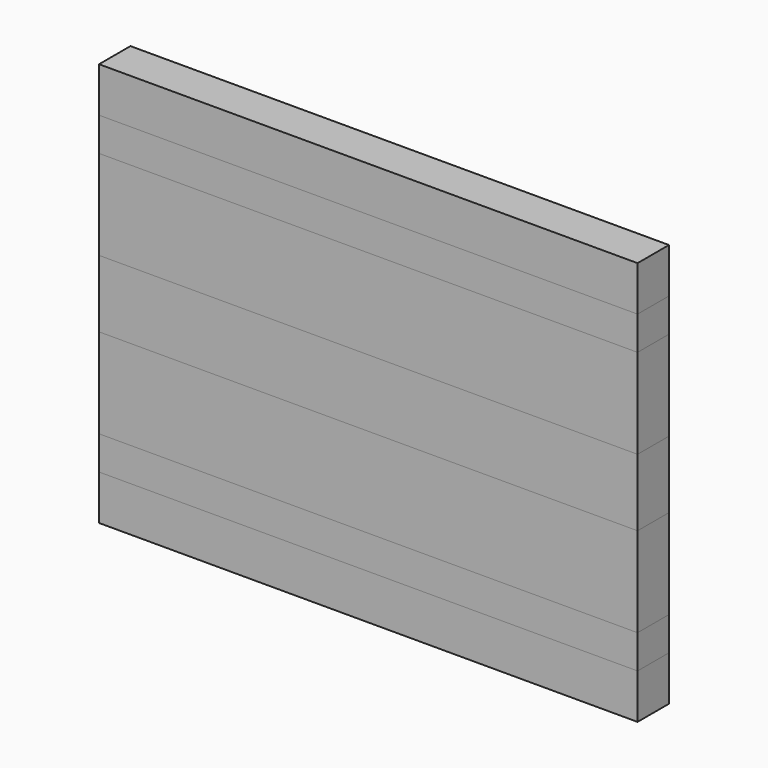
from build123d import *

# Parameters (mm, degrees)
F0_W     = 609.6
F0_H     = 38.1
F1_DEPTH = 44.45
F2_DEPTH = 44.45
F0_H_2   = 101.6
F0_H_3   = 50.8
F3_DEPTH = 44.45
F0_H_4   = 76.2
F4_DEPTH = 44.45
F5_DEPTH = 44.45


with BuildPart() as f1:
    # F0 (on Front) → F1 (new body)
    with BuildSketch(Plane.XZ):
        with Locations((145.823698, 120.65)):
            Rectangle(F0_W, F0_H)
    extrude(amount=F1_DEPTH)


with BuildPart() as f2:
    # F0 (on Front) → F2 (new body)
    with BuildSketch(Plane.XZ):
        with Locations((145.823698, -196.85)):
            Rectangle(F0_W, F0_H)
    extrude(amount=F2_DEPTH)


with BuildPart() as f3:
    # F0 (on Front) → F3 (new body)
    with BuildSketch(Plane.XZ):
        with Locations((145.823698, 50.8)):
            Rectangle(F0_W, F0_H_2)
        with Locations((145.823698, 165.1)):
            Rectangle(F0_W, F0_H_3)
        with Locations((145.823698, -241.3)):
            Rectangle(F0_W, F0_H_3)
    extrude(amount=F3_DEPTH)


with BuildPart() as f4:
    # F0 (on Front) → F4 (new body)
    with BuildSketch(Plane.XZ):
        with Locations((145.823698, -38.1)):
            Rectangle(F0_W, F0_H_4)
    extrude(amount=F4_DEPTH)


with BuildPart() as f5:
    # F0 (on Front) → F5 (new body)
    with BuildSketch(Plane.XZ):
        with Locations((145.823698, -127)):
            Rectangle(F0_W, F0_H_2)
    extrude(amount=F5_DEPTH)


solid = Compound([f1.part, f2.part, f3.part, f4.part, f5.part])
